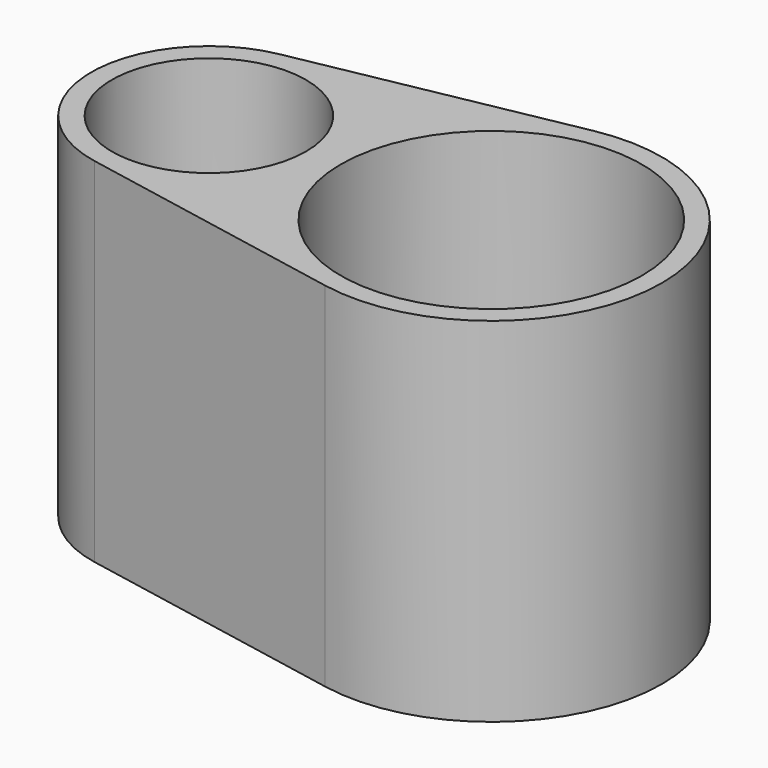
from build123d import *

# Parameters (mm, degrees)
SKETCH_R   = 4.125
SKETCH_R_2 = 6.4
PAD_DEPTH  = 15


with BuildPart() as part:
    # Sketch → Pad (new body)
    with BuildSketch(Plane.XY):
        with BuildLine():
            ThreePointArc((-0.9375, 4.911323), (-5, 0), (-0.9375, -4.911323))
            Line((-0.9375, -4.911323), (10.640625, -7.121418))
            ThreePointArc((10.640625, -7.121418), (19.25, 0), (10.640625, 7.121418))
            Line((-0.9375, 4.911323), (10.640625, 7.121418))
        make_face()
        Circle(SKETCH_R, mode=Mode.SUBTRACT)
        with Locations((12, 0)):
            Circle(SKETCH_R_2, mode=Mode.SUBTRACT)
    extrude(amount=PAD_DEPTH)


solid = part.part
